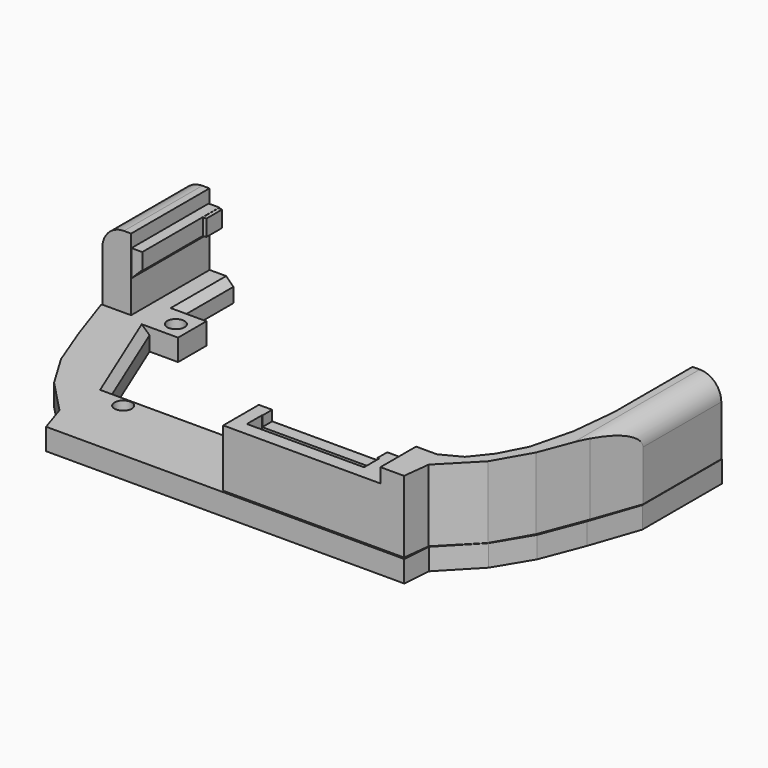
from build123d import *

# Parameters (mm, degrees)
PAD038_DEPTH    = 3
SKETCH068_W     = 4
SKETCH068_H     = 13.628868
PAD039_DEPTH    = 10
SKETCH070_W     = 16.3
SKETCH070_H     = 2.6
POCKET031_DEPTH = 11
SKETCH071_W     = 16
SKETCH071_H     = 2.72
POCKET032_DEPTH = 4
SKETCH078_W     = 22.244752
SKETCH078_H     = 7.861252
POCKET037_DEPTH = 2
SKETCH081_W     = 13.416131
SKETCH081_H     = 2.3
PAD042_DEPTH    = 1.5
SKETCH082_W     = 13.368385
SKETCH082_H     = 2.3
PAD043_DEPTH    = 1.5
SKETCH083_W     = 2.761169
SKETCH083_H     = 2.284319
PAD044_DEPTH    = 0.5
SKETCH084_W     = 2.757059
SKETCH084_H     = 2.258492
PAD045_DEPTH    = 0.5
CHAMFER014_SIZE = 1.4
FILLET012_R     = 3
SKETCH086_R     = 1.2
POCKET038_DEPTH = 2
SKETCH087_R     = 0.7
POCKET039_DEPTH = 5
CHAMFER017_SIZE = 1


with BuildPart() as part:
    # Sketch069 → Pad038 (new body)
    with BuildSketch(Plane.XY.offset(-8.2)):
        Polygon((24.588766, -45.296032), (-24.588766, -45.296032), (-30.301265, -31.40278), (-26.329521, -31.40278), (-26.329521, -26.47687), (-30.301265, -26.47687), (-30.301265, -16.823771), (-37.665775, -16.823771), (-37.665775, -30.675779), (-35.365035, -37.426579), (-33.111649, -43.283928), (-30.227776, -48.090385), (-25.709705, -52.800713), (-24.427355, -56.731705), (25.394418, -56.731705), (25.709705, -52.800713), (30.227776, -48.090385), (33.111649, -43.283928), (35.365035, -37.426579), (37.665775, -30.675779), (37.665775, -16.823771), (30.301265, -16.823771), (30.301265, -26.47687), (26.329521, -26.47687), (26.329521, -31.40278), (30.301265, -31.40278), align=None)
    extrude(amount=-PAD038_DEPTH)

    # Sketch068 → Pad039 (join)
    with BuildSketch(Plane.XY.offset(-8.2)):
        Polygon((33.602105, -16.851452), (33.602105, -30.48032), (32.974419, -36.715145), (31.524649, -42.567276), (29.661472, -46.157772), (27.526943, -48.830738), (24.790402, -50.266937), (0, -50.266937), (0, -56.462727), (25.154314, -56.462727), (25.588615, -52.727741), (30.133654, -48.083988), (32.913181, -43.219818), (35.345268, -36.850067), (37.602105, -30.48032), (37.602105, -16.851452), align=None)
        with Locations((-35.602105, -23.665886)):
            Rectangle(SKETCH068_W, SKETCH068_H)
    extrude(amount=PAD039_DEPTH)

    # Sketch070 (on Face5 of Pad039) → Pocket031 (cut)
    with BuildSketch(Plane(origin=(0, 0, -11.2), x_dir=(1, 0, 0), z_dir=(0, 0, -1))):
        with Locations((9.95, 53.3)):
            Rectangle(SKETCH070_W, SKETCH070_H)
    extrude(amount=-POCKET031_DEPTH, mode=Mode.SUBTRACT)

    # Sketch071 (on Face35 of Pocket031) → Pocket032 (cut)
    with BuildSketch(Plane(origin=(0, -50.266937, 0), x_dir=(-1, 0, 0), z_dir=(0, 1, 0))):
        with Locations((-9.86, -0.26)):
            Rectangle(SKETCH071_W, SKETCH071_H)
    extrude(amount=-POCKET032_DEPTH, mode=Mode.SUBTRACT)

    # Sketch078 (on Face53 of Pocket032) → Pocket037 (cut)
    with BuildSketch(Plane.XY.offset(1.8)):
        with Locations((10.750455, -53.658291)):
            Rectangle(SKETCH078_W, SKETCH078_H)
    extrude(amount=-POCKET037_DEPTH, mode=Mode.SUBTRACT)

    # Sketch081 (on Face45 of Pocket037) → Pad042 (join)
    with BuildSketch(Plane.YZ.offset(-33.602105)):
        with Locations((-23.705268, -1.15)):
            Rectangle(SKETCH081_W, SKETCH081_H)
    extrude(amount=PAD042_DEPTH)

    # Sketch082 (on Face29 of Pad042) → Pad043 (join)
    with BuildSketch(Plane(origin=(33.602105, 0, 0), x_dir=(0, -1, 0), z_dir=(-1, 0, 0))):
        with Locations((23.672373, -1.15)):
            Rectangle(SKETCH082_W, SKETCH082_H)
    extrude(amount=PAD043_DEPTH)

    # Sketch083 (on Face68 of Pad043) → Pad044 (join)
    with BuildSketch(Plane(origin=(32.102105, 0, 0), x_dir=(0, -1, 0), z_dir=(-1, 0, 0))):
        with Locations((18.510706, -1.142159)):
            Rectangle(SKETCH083_W, SKETCH083_H)
    extrude(amount=PAD044_DEPTH)

    # Sketch084 (on Face70 of Pad044) → Pad045 (join)
    with BuildSketch(Plane.YZ.offset(-32.102105)):
        with Locations((-18.51388, -1.146782)):
            Rectangle(SKETCH084_W, SKETCH084_H)
    extrude(amount=PAD045_DEPTH)

    # Chamfer014
    chamfer014_edges = [part.edges().sort_by_distance(p)[0] for p in [
        (33.602105, -23.672373, -2.3),
        (-33.602105, -23.705268, -2.3),
    ]]
    chamfer(chamfer014_edges, length=CHAMFER014_SIZE)

    # Fillet012
    fillet012_edges = [part.edges().sort_by_distance(p)[0] for p in [
        (37.602105, -23.665886, 1.8),
        (-37.602105, -23.665886, 1.8),
    ]]
    fillet(fillet012_edges, radius=FILLET012_R)

    # Sketch086 (on Face4 of Fillet012) → Pocket038 (cut)
    with BuildSketch(Plane.XY.offset(-8.2)):
        with Locations((-28.5, -29.067181)):
            Circle(SKETCH086_R)
        with Locations((28.5, -29.067181)):
            Circle(SKETCH086_R)
        with Locations((-21, -47.610665)):
            Circle(SKETCH086_R)
        with Locations((21, -47.610665)):
            Circle(SKETCH086_R)
    extrude(amount=-POCKET038_DEPTH, mode=Mode.SUBTRACT)

    # Sketch087 (on Face63 of Pocket038) → Pocket039 (cut)
    with BuildSketch(Plane.XY.offset(-10.2)):
        with Locations((-28.5, -29.054167)):
            Circle(SKETCH087_R)
        with Locations((28.5, -29.054167)):
            Circle(SKETCH087_R)
        with Locations((-21, -47.60955)):
            Circle(SKETCH087_R)
        with Locations((21, -47.60955)):
            Circle(SKETCH087_R)
    extrude(amount=-POCKET039_DEPTH, mode=Mode.SUBTRACT)

    # Chamfer017
    chamfer017_edges = [part.edges().sort_by_distance(p)[0] for p in [
        (30.301265, -21.65032, -8.2),
        (27.445016, -38.349406, -8.2),
        (0, -45.296032, -8.2),
        (-27.445016, -38.349406, -8.2),
        (-30.301265, -21.65032, -8.2),
    ]]
    chamfer(chamfer017_edges, length=CHAMFER017_SIZE)


solid = part.part
